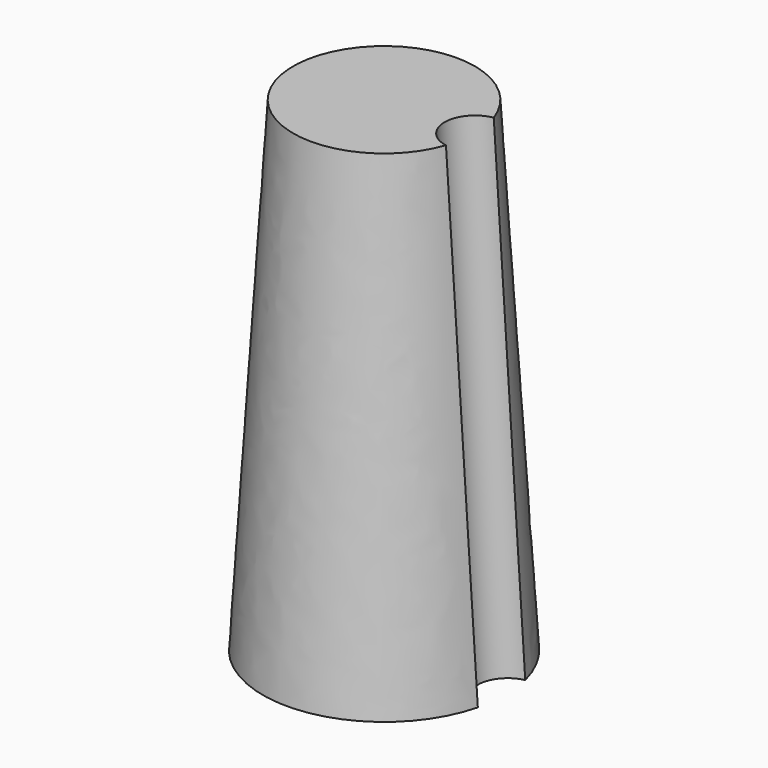
from build123d import *


with BuildPart() as f3:
    # F0 (on Top) → F3 section 0
    with BuildSketch(Plane.XY):
        with BuildLine():
            ThreePointArc((12.314393, -3.105757), (9.798862, 0), (12.314393, 3.105757))
            ThreePointArc((12.314393, 3.105757), (-12.7, 0), (12.314393, -3.105757))
        make_face()
    # F2 (on offset) → F3 section 1
    with BuildSketch(Plane.XY.offset(50.8)):
        with BuildLine():
            ThreePointArc((8.995833, -3.130592), (6.35, 0), (8.995833, 3.130592))
            ThreePointArc((8.995833, 3.130592), (-9.525, 0), (8.995833, -3.130592))
        make_face()
    loft()


solid = f3.part
